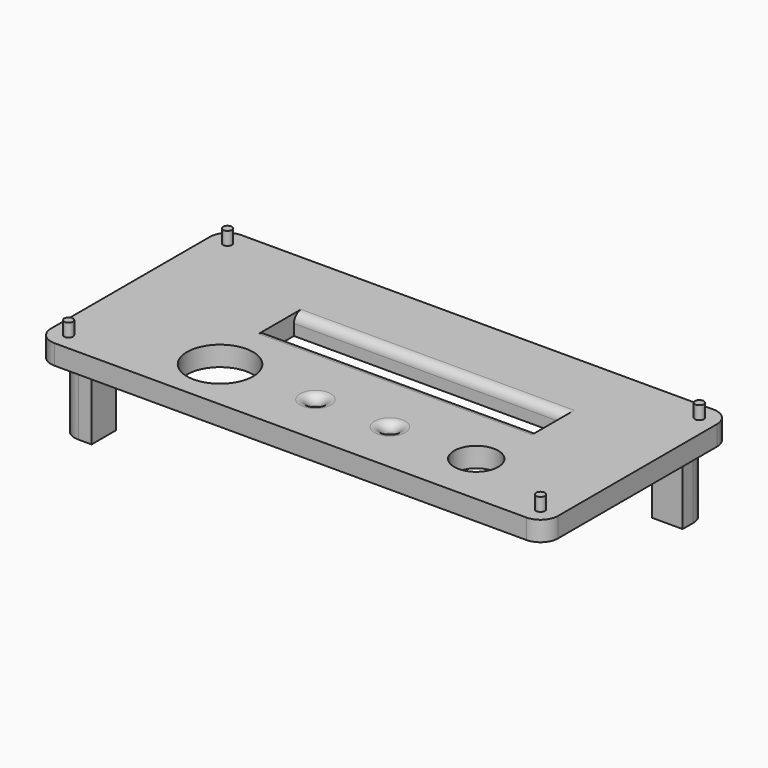
from build123d import *

# Parameters (mm, degrees)
F0_W     = 115.07
F0_H     = 53.068566
F0_R     = 7.5
F0_R_2   = 1.5
F0_R_3   = 5
F0_W_2   = 62
F0_H_2   = 8
F1_DEPTH = 4.5
F2_R     = 2.75
F2_R_2   = 0.8
F3_DEPTH = 4.2
F2_R_3   = 1.55
F4_DEPTH = 10
F2_W     = 7
F2_H     = 7
F5_DEPTH = 15
F6_R     = 4
F7_R     = 2
F8_R     = 1
F9_DEPTH = 3


with BuildPart() as f1:
    # F0 (on Top) → F1 (new body)
    with BuildSketch(Plane.XY):
        with Locations((-12.935, -12.968091)):
            Rectangle(F0_W, F0_H)
        with Locations((-38.54, -27.467072)):
            Circle(F0_R, mode=Mode.SUBTRACT)
        with Locations((-16.89, -27.467072)):
            Circle(F0_R_2, mode=Mode.SUBTRACT)
        with Locations((0, -27.467072)):
            Circle(F0_R_2, mode=Mode.SUBTRACT)
        with Locations((19.6, -27.467072)):
            Circle(F0_R_3, mode=Mode.SUBTRACT)
        with Locations((-9.47, -8.090887)):
            Rectangle(F0_W_2, F0_H_2, mode=Mode.SUBTRACT)
    extrude(amount=F1_DEPTH)

    # F2 (on face) → F3 (join)
    with BuildSketch(Plane(origin=(0, 0, 0), x_dir=(1, 0, 0), z_dir=(0, 0, -1))):
        with Locations((-51.74, 27.467072)):
            Circle(F2_R)
        with Locations((-51.74, 27.467072)):
            Circle(F2_R_2, mode=Mode.SUBTRACT)
        with Locations((34.58, 27.467072)):
            Circle(F2_R)
        with Locations((34.58, 27.467072)):
            Circle(F2_R_2, mode=Mode.SUBTRACT)
    extrude(amount=F3_DEPTH)

    # F2 (on face) → F4 (join)
    with BuildSketch(Plane(origin=(0, 0, 0), x_dir=(1, 0, 0), z_dir=(0, 0, -1))):
        with BuildLine():
            ThreePointArc((-61.635334, 6.460625), (-61.237259, 7.232933), (-61.1, 8.090887))
            ThreePointArc((-61.1, 8.090887), (-61.151295, 8.619556), (-61.303266, 9.128503))
            ThreePointArc((-61.303266, 9.128503), (-61.706342, 9.813453), (-62.288459, 10.354533))
            ThreePointArc((-62.288459, 10.354533), (-63.864187, 10.840851), (-65.434813, 10.338301))
            ThreePointArc((-65.434813, 10.338301), (-65.814249, 6.16625), (-61.635334, 6.460625))
        make_face()
        with Locations((-63.85, 8.090887)):
            Circle(F2_R_3, mode=Mode.SUBTRACT)
        with BuildLine():
            ThreePointArc((28.623068, 6.828383), (28.852166, 7.441248), (28.93, 8.090887))
            ThreePointArc((28.93, 8.090887), (28.878705, 8.619556), (28.726734, 9.128503))
            ThreePointArc((28.726734, 9.128503), (28.160386, 9.998915), (27.311647, 10.597254))
            ThreePointArc((27.311647, 10.597254), (25.931697, 10.829655), (24.616043, 10.352864))
            ThreePointArc((24.616043, 10.352864), (24.363767, 6.02599), (28.623068, 6.828383))
        make_face()
        with Locations((26.18, 8.090887)):
            Circle(F2_R_3, mode=Mode.SUBTRACT)
        with BuildLine():
            ThreePointArc((-65.434813, 10.338301), (-63.864187, 10.840851), (-62.288459, 10.354533))
            Line((-62.288459, 10.354533), (-62.288459, 15.503125))
            Line((-62.288459, 15.503125), (-65.514393, 15.503125))
            Line((-65.514393, 15.503125), (-65.434813, 10.338301))
        make_face()
        with BuildLine():
            ThreePointArc((-61.303266, 9.128503), (-61.151295, 8.619556), (-61.1, 8.090887))
            ThreePointArc((-61.1, 8.090887), (-61.237259, 7.232933), (-61.635334, 6.460625))
            Line((-61.635334, 6.460625), (-56.851811, 6.460625))
            Line((-56.851811, 6.460625), (-56.851811, 9.128503))
            Line((-56.851811, 9.128503), (-61.303266, 9.128503))
        make_face()
        with BuildLine():
            ThreePointArc((24.616043, 10.352864), (25.931697, 10.829655), (27.311647, 10.597254))
            Line((27.311647, 10.597254), (27.311647, 15.503125))
            Line((27.311647, 15.503125), (24.616043, 15.503125))
            Line((24.616043, 15.503125), (24.616043, 10.352864))
        make_face()
        with BuildLine():
            ThreePointArc((28.726734, 9.128503), (28.878705, 8.619556), (28.93, 8.090887))
            ThreePointArc((28.93, 8.090887), (28.852166, 7.441248), (28.623068, 6.828383))
            Line((28.623068, 6.828383), (33.166498, 6.828383))
            Line((33.166498, 6.828383), (33.166498, 9.128503))
            Line((33.166498, 9.128503), (28.726734, 9.128503))
        make_face()
    extrude(amount=F4_DEPTH)

    # F2 (on face) → F5 (join)
    with BuildSketch(Plane(origin=(0, 0, 0), x_dir=(1, 0, 0), z_dir=(0, 0, -1))):
        with Locations((-63.97, 33.002374)):
            Rectangle(F2_W, F2_H)
        with Locations((38.1, -7.066192)):
            Rectangle(F2_W, F2_H)
        with Locations((-63.97, -7.066192)):
            Rectangle(F2_W, F2_H)
    extrude(amount=F5_DEPTH)

    # F6
    f6_edges = [f1.edges().sort_by_distance(p)[0] for p in [
        (-70.47, -39.502374, 2.25),
        (-70.47, 13.566192, 2.25),
        (-67.47, -36.502374, -7.5),
        (-67.47, 10.566192, -7.5),
        (41.6, 10.566192, -7.5),
        (44.6, 13.566192, 2.25),
        (44.6, -39.502374, 2.25),
        (-63.901426, -15.503125, 0),
        (-56.851811, -7.794564, 0),
        (-63.901426, -15.503125, -10),
        (-56.851811, -7.794564, -10),
        (25.963845, -15.503125, -10),
        (25.963845, -15.503125, 0),
        (33.166498, -7.978443, -10),
        (33.166498, -7.978443, 0),
    ]]
    fillet(f6_edges, radius=F6_R)

    # F7
    f7_edges = [f1.edges().sort_by_distance(p)[0] for p in [
        (31.83, -27.467072, 0),
        (-54.49, -27.467072, 0),
        (-60.47, 7.066192, 0),
        (-63.97, 3.566192, 0),
        (34.6, 7.066192, 0),
        (38.1, 3.566192, 0),
        (-60.47, -33.002374, 0),
        (-63.97, -29.502374, 0),
        (-9.47, -12.090887, 4.5),
        (-9.47, -4.090887, 4.5),
        (-1.5, -27.467072, 4.5),
        (-18.39, -27.467072, 4.5),
        (-1.5, -27.467072, 0),
        (-18.39, -27.467072, 0),
    ]]
    fillet(f7_edges, radius=F7_R)

    # F8 (on face) → F9 (join)
    with BuildSketch(Plane.XY.offset(4.5)):
        with Locations((-66.47, 9.566192)):
            Circle(F8_R)
        with Locations((40.6, 9.566192)):
            Circle(F8_R)
        with Locations((40.6, -35.502374)):
            Circle(F8_R)
        with Locations((-66.47, -35.502374)):
            Circle(F8_R)
    extrude(amount=F9_DEPTH)


solid = f1.part
